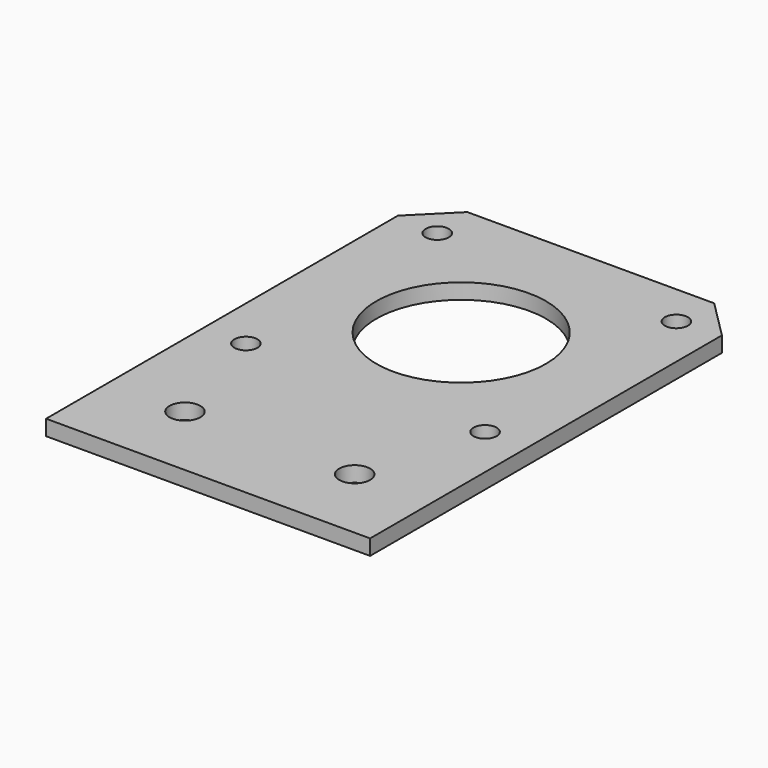
from build123d import *

# Parameters (mm, degrees)
F0_W     = 42
F0_H     = 62
F0_R     = 2
F0_R_2   = 1.5
F0_R_3   = 11
F1_DEPTH = 2
F2_SIZE  = 5


with BuildPart() as f1:
    # F0 (on Top) → F1 (new body)
    with BuildSketch(Plane.XY):
        Rectangle(F0_W, F0_H)
        with Locations((-11, -21)):
            Circle(F0_R, mode=Mode.SUBTRACT)
        with Locations((-15.5, -5.5)):
            Circle(F0_R_2, mode=Mode.SUBTRACT)
        with Locations((11, -21)):
            Circle(F0_R, mode=Mode.SUBTRACT)
        with Locations((15.5, -5.5)):
            Circle(F0_R_2, mode=Mode.SUBTRACT)
        with Locations((-15.5, 25.5)):
            Circle(F0_R_2, mode=Mode.SUBTRACT)
        with Locations((0, 10)):
            Circle(F0_R_3, mode=Mode.SUBTRACT)
        with Locations((15.5, 25.5)):
            Circle(F0_R_2, mode=Mode.SUBTRACT)
    extrude(amount=F1_DEPTH)

    # F2
    f2_edges = [f1.edges().sort_by_distance(p)[0] for p in [
        (21, 31, 1),
        (-21, 31, 1),
    ]]
    chamfer(f2_edges, length=F2_SIZE)


solid = f1.part
